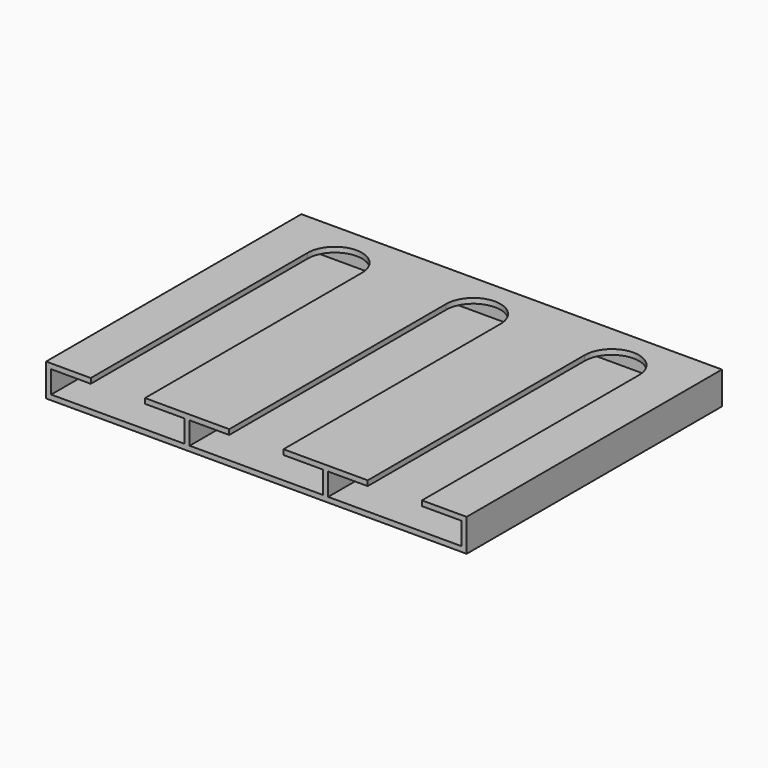
from build123d import *

# Parameters (mm, degrees)
F0_W      = 45
F0_H      = 100
F1_DEPTH  = 10.2
F2_W      = 17
F2_H      = 85
F3_DEPTH  = 8.6
F4_W      = 41.8
F4_H      = 100
F5_DEPTH  = 7
F8_R      = 8.5
F9_DEPTH  = 10
F14_W     = 131.8
F14_H     = 10.2
F15_DEPTH = 0.8


with BuildPart() as f1:
    # F0 (on Top) → F1 (new body)
    with BuildSketch(Plane.XY):
        with Locations((-33.8353561237, -14.8088461805)):
            Rectangle(F0_W, F0_H)
    extrude(amount=F1_DEPTH)

    # F2 (on face) → F3 (cut)
    with BuildSketch(Plane.XY.offset(10.2)):
        with Locations((-33.8353561237, -22.3088461805)):
            Rectangle(F2_W, F2_H)
    extrude(amount=-F3_DEPTH, mode=Mode.SUBTRACT)


with BuildPart() as f5:
    # F4 (on Top) → F5 (new body)
    with BuildSketch(Plane.XY):
        with Locations((-35.4353561237, -14.8088461805)):
            Rectangle(F4_W, F4_H)
    extrude(amount=F5_DEPTH)


with BuildPart() as f5_1:
    # F6: moved
    add(f5.part.moved(Location((1.6, 0, 1.6))))


with BuildPart() as f1_1:
    add(f1.part)

    # F7: cut F5
    add(f5_1.part, mode=Mode.SUBTRACT)


with BuildPart() as f9:
    # F8 (on Top) → F9 (new body)
    with BuildSketch(Plane.XY):
        with Locations((-33.8353561237, -64.8088461805)):
            Circle(F8_R)
    extrude(amount=F9_DEPTH)


with BuildPart() as f9_1:
    # F10: moved
    add(f9.part.moved(Location((0, 85, 4))))


with BuildPart() as f1_2:
    add(f1_1.part)

    # F11: cut F9
    add(f9_1.part, mode=Mode.SUBTRACT)


with BuildPart() as f12_1:
    # F12: copy of F1
    add(f1_2.part.moved(Location((43.4, 0, 0))))


with BuildPart() as f13_1:
    # F13: copy of F12_1
    add(f12_1.part.moved(Location((43.4, 0, 0))))


with BuildPart() as f1_3:
    add(f1_2.part)

    add(f12_1.part)  # F15 merges F12_1

    add(f13_1.part)  # F15 merges F13_1
    # F14 (on face) → F15 (join)
    with BuildSketch(Plane(origin=(0, 35.1911538195, 0), x_dir=(-1, 0, 0), z_dir=(0, 1, 0))):
        with Locations((-9.5646438763, 5.1)):
            Rectangle(F14_W, F14_H)
    extrude(amount=-F15_DEPTH)


solid = f1_3.part
